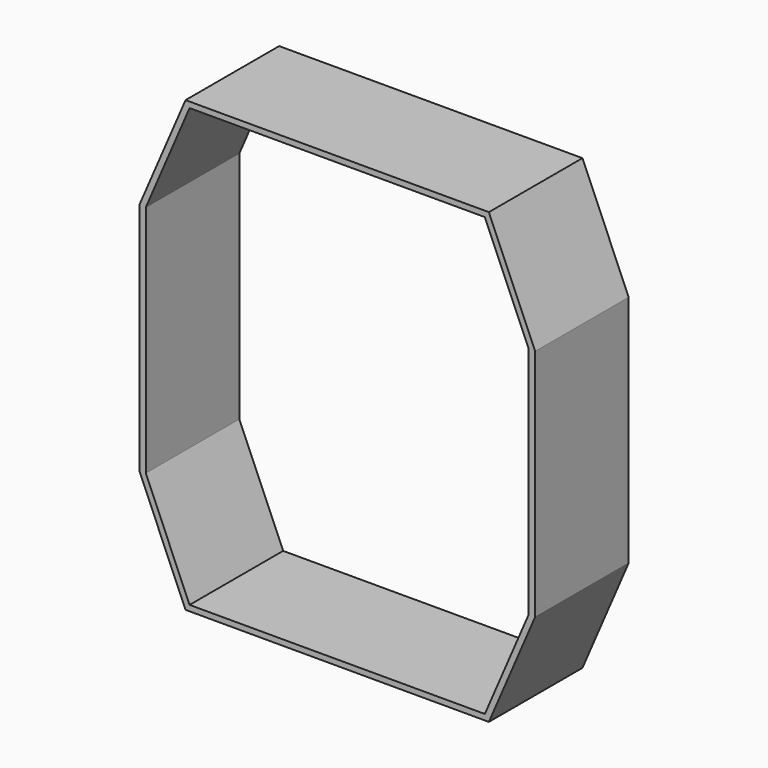
from build123d import *

# Parameters (mm, degrees)
F1_DEPTH = 12.7


with BuildPart() as f1:
    # F0 (on Front) → F1 (new body, symmetric)
    with BuildSketch(Plane.XZ):
        Polygon((32.062296, 48.729989), (-32.062296, 48.729989), (-32.936718, 48.729989), (-42.980205, 25.4), (-42.980205, -25.4), (-32.936718, -48.729989), (32.062296, -48.729989), (32.936718, -48.729989), (42.980205, -25.4), (42.980205, 25.4), (32.936718, 48.729989), align=None)
        Polygon((-41.573768, 25.4), (-32.062296, 47.494172), (0, 47.494172), (32.062296, 47.494172), (41.573768, 25.4), (41.573768, -25.4), (32.062296, -47.494172), (0, -47.494172), (-32.062296, -47.494172), (-41.573768, -25.4), align=None, mode=Mode.SUBTRACT)
    extrude(amount=F1_DEPTH, both=True)


solid = f1.part
